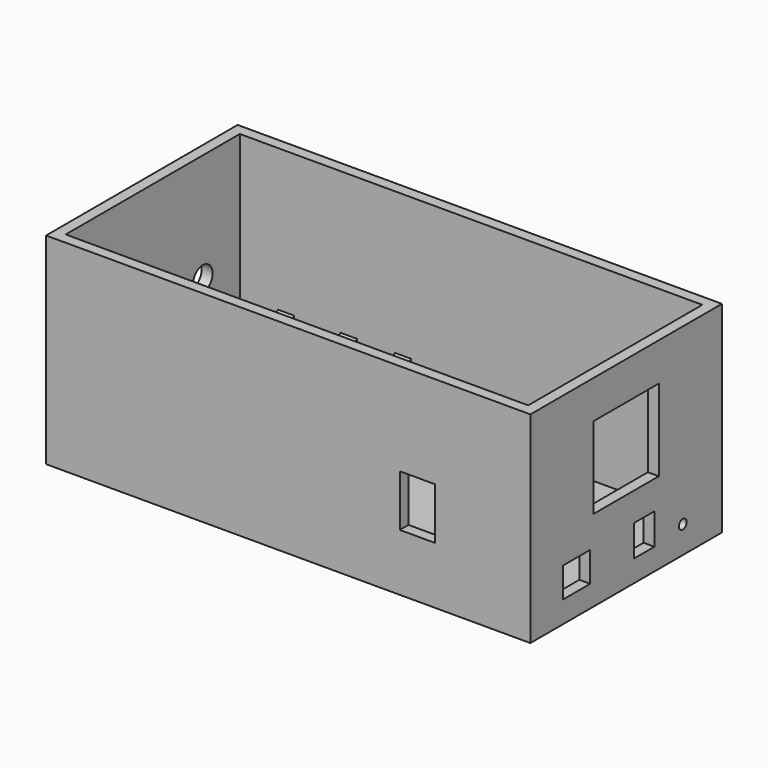
from build123d import *

# Parameters (mm, degrees)
SKETCH_W        = 178
SKETCH_H        = 88
PAD_DEPTH       = 74
SKETCH001_W     = 170
SKETCH001_H     = 80
POCKET_DEPTH    = 70
SKETCH002_W     = 12.5
SKETCH002_H     = 11
SKETCH002_W_2   = 9.5
SKETCH002_H_2   = 11.5
POCKET001_DEPTH = 5
SKETCH003_W     = 30
SKETCH003_H     = 30
POCKET002_DEPTH = 5
SKETCH004_W     = 13
SKETCH004_H     = 19
POCKET003_DEPTH = 5
SKETCH005_R     = 4.5
POCKET004_DEPTH = 5
SKETCH006_W     = 6
SKETCH006_H     = 6.5
PAD001_DEPTH    = 30
SKETCH007_R     = 4.5
POCKET005_DEPTH = 90
SKETCH008_R     = 1.55
PAD002_DEPTH    = 3
SKETCH010_R     = 1.75
POCKET006_DEPTH = 5
SKETCH011_W     = 4
SKETCH011_H     = 4
PAD004_DEPTH    = 6


with BuildPart() as part:
    # Sketch → Pad (new body)
    with BuildSketch(Plane.XY):
        with Locations((89, 44)):
            Rectangle(SKETCH_W, SKETCH_H)
    extrude(amount=PAD_DEPTH)

    # Sketch001 (on Face6 of Pad) → Pocket (cut)
    with BuildSketch(Plane.XY.offset(74)):
        with Locations((89, 44)):
            Rectangle(SKETCH001_W, SKETCH001_H)
    extrude(amount=-POCKET_DEPTH, mode=Mode.SUBTRACT)

    # Sketch002 (on Face3 of Pocket) → Pocket001 (cut)
    with BuildSketch(Plane.YZ.offset(178)):
        with Locations((21.25, 13.5)):
            Rectangle(SKETCH002_W, SKETCH002_H)
        with Locations((52.25, 13.75)):
            Rectangle(SKETCH002_W_2, SKETCH002_H_2)
    extrude(amount=-POCKET001_DEPTH, mode=Mode.SUBTRACT)

    # Sketch003 (on Face3 of Pocket001) → Pocket002 (cut)
    with BuildSketch(Plane.YZ.offset(178)):
        with Locations((44, 45)):
            Rectangle(SKETCH003_W, SKETCH003_H)
    extrude(amount=-POCKET002_DEPTH, mode=Mode.SUBTRACT)

    # Sketch004 (on Face1 of Pocket002) → Pocket003 (cut)
    with BuildSketch(Plane.XZ):
        with Locations((136.5, 30.5)):
            Rectangle(SKETCH004_W, SKETCH004_H)
    extrude(amount=-POCKET003_DEPTH, mode=Mode.SUBTRACT)

    # Sketch005 (on Face2 of Pocket003) → Pocket004 (cut)
    with BuildSketch(Plane(origin=(0, 0, 0), x_dir=(0, -1, 0), z_dir=(-1, 0, 0))):
        with Locations((-67, 34)):
            Circle(SKETCH005_R)
    extrude(amount=-POCKET004_DEPTH, mode=Mode.SUBTRACT)

    # Sketch006 (on Face28 of Pocket004) → Pad001 (join)
    with BuildSketch(Plane.XY.offset(4)):
        with Locations((32, 67)):
            Rectangle(SKETCH006_W, SKETCH006_H)
        with Locations((55, 67)):
            Rectangle(SKETCH006_W, SKETCH006_H)
        with Locations((75, 67)):
            Rectangle(SKETCH006_W, SKETCH006_H)
    extrude(amount=PAD001_DEPTH)

    # Sketch007 (on Face31 of Pad001) → Pocket005 (cut)
    with BuildSketch(Plane.YZ.offset(78)):
        with Locations((67, 34)):
            Circle(SKETCH007_R)
    extrude(amount=-POCKET005_DEPTH, mode=Mode.SUBTRACT)

    # Sketch008 (on Face29 of Pocket005) → Pad002 (join)
    with BuildSketch(Plane.XY.offset(4)):
        with Locations((104.96, 52)):
            Circle(SKETCH008_R)
        with Locations((104.96, 24)):
            Circle(SKETCH008_R)
    extrude(amount=PAD002_DEPTH)

    # Sketch010 → Pocket006 (cut)
    with BuildSketch(Plane.YZ.offset(178)):
        with Locations((70, 10)):
            Circle(SKETCH010_R)
    extrude(amount=-POCKET006_DEPTH, mode=Mode.SUBTRACT)

    # Sketch011 (on Face30 of Pocket006) → Pad004 (join)
    with BuildSketch(Plane.XY.offset(4)):
        with Locations((10, 31)):
            Rectangle(SKETCH011_W, SKETCH011_H)
        with Locations((20, 64)):
            Rectangle(SKETCH011_W, SKETCH011_H)
        with Locations((101, 15)):
            Rectangle(SKETCH011_W, SKETCH011_H)
        with Locations((92, 64)):
            Rectangle(SKETCH011_W, SKETCH011_H)
    extrude(amount=PAD004_DEPTH)


solid = part.part
